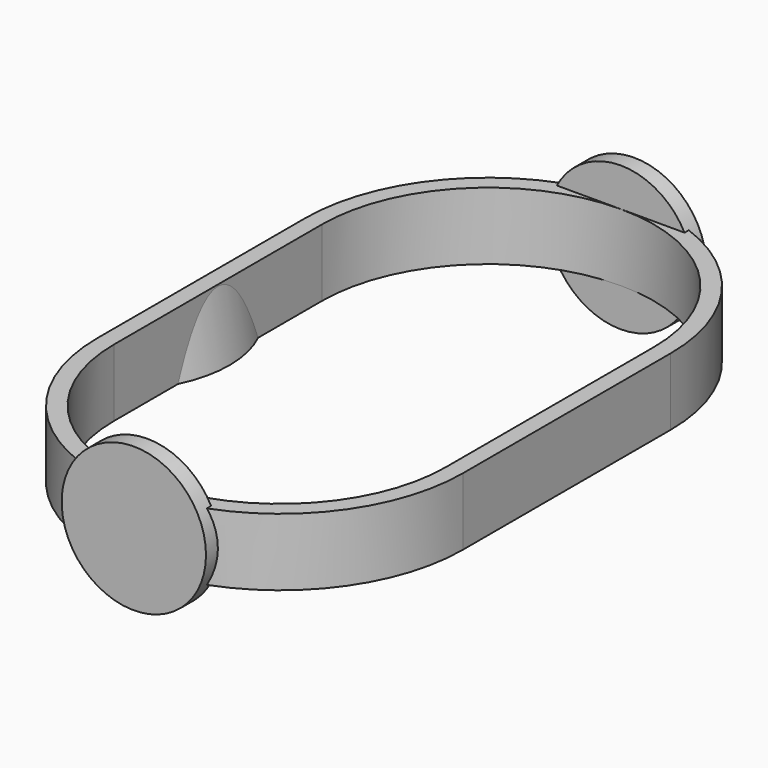
from build123d import *

# Parameters (mm, degrees)
CYLINDER070_R               = 80
CYLINDER070_DEPTH           = 10
CYLINDER069_R               = 80
CYLINDER069_DEPTH           = 10
BOX005_W                    = 40
BOX005_H                    = 27
BOX005_DEPTH                = 7
BOX004_W                    = 40
BOX004_H                    = 27
BOX004_DEPTH                = 7
CYLINDER071_R               = 12
CYLINDER071_DEPTH           = 10
CYLINDER071_PLACEMENT_ANGLE = 350
BOX002_W                    = 1.75
BOX002_H                    = 27
BOX002_DEPTH                = 7
CYLINDER073_R               = 17.25
CYLINDER073_DEPTH           = 7
CYLINDER067_R               = 17.25
CYLINDER067_DEPTH           = 7
BOX006_W                    = 34.5
BOX006_H                    = 27
BOX006_DEPTH                = 7
CYLINDER072_R               = 19
CYLINDER072_DEPTH           = 7
CYLINDER066_R               = 19
CYLINDER066_DEPTH           = 7
BOX003_W                    = 1.75
BOX003_H                    = 27
BOX003_DEPTH                = 7
CYLINDER076_R               = 12
CYLINDER076_DEPTH           = 10
CYLINDER076_PLACEMENT_ANGLE = 10
CYLINDER077_R               = 7.5
CYLINDER077_DEPTH           = 1.75
CYLINDER075_R               = 7.5
CYLINDER075_DEPTH           = 1.75


with BuildPart() as obj1:
    # Cylinder070 → Cylinder070 (new body)
    with BuildSketch(Plane.XY.offset(-10)):
        Circle(CYLINDER070_R)
    extrude(amount=CYLINDER070_DEPTH)


with BuildPart() as obj2:
    # Cylinder069 → Cylinder069 (new body)
    with BuildSketch(Plane.XY.offset(7)):
        Circle(CYLINDER069_R)
    extrude(amount=CYLINDER069_DEPTH)


with BuildPart() as cube003:
    # Box005 → Box005 (new body)
    with BuildSketch(Plane(origin=(-59, -13.5, 0), x_dir=(1, 0, 0), z_dir=(0, 0, 1))):
        with Locations((20, 13.5)):
            Rectangle(BOX005_W, BOX005_H)
    extrude(amount=BOX005_DEPTH)


with BuildPart() as obj3:
    # Box004 → Box004 (new body)
    with BuildSketch(Plane(origin=(19, -13.5, 0), x_dir=(1, 0, 0), z_dir=(0, 0, 1))):
        with Locations((20, 13.5)):
            Rectangle(BOX004_W, BOX004_H)
    extrude(amount=BOX004_DEPTH)

    # Fusion075: union Cube003
    add(cube003.part)

    # Fusion077: union obj1, obj2
    add(obj1.part)
    add(obj2.part)


with BuildPart() as obj4:
    # Cylinder071 → Cylinder071 (new body)
    with BuildSketch(Plane.XY):
        Circle(CYLINDER071_R)
    extrude(amount=CYLINDER071_DEPTH)


with BuildPart() as obj4_1:
    # Cylinder071 placement: moved
    add(obj4.part.moved(Location((-27.54617, 0, -3.88689))).rotate(Axis((-27.54617, 0, -3.88689), (0, 1, 0)), CYLINDER071_PLACEMENT_ANGLE))


with BuildPart() as obj5:
    # Part__Mirroring: instance of obj4
    add(obj4_1.part.mirror(Plane(origin=(0, 0, 0), x_dir=(0, -1, 0), z_dir=(1, 0, 0))))


with BuildPart() as obj6:
    # Box002 → Box002 (new body)
    with BuildSketch(Plane(origin=(17.25, -13.5, 0), x_dir=(1, 0, 0), z_dir=(0, 0, 1))):
        with Locations((0.875, 13.5)):
            Rectangle(BOX002_W, BOX002_H)
    extrude(amount=BOX002_DEPTH)


with BuildPart() as obj7:
    # Cylinder073 → Cylinder073 (new body)
    with BuildSketch(Plane(origin=(0, -13.5, 0), x_dir=(1, 0, 0), z_dir=(0, 0, 1))):
        Circle(CYLINDER073_R)
    extrude(amount=CYLINDER073_DEPTH)


with BuildPart() as obj8:
    # Cylinder067 → Cylinder067 (new body)
    with BuildSketch(Plane(origin=(0, 13.5, 0), x_dir=(1, 0, 0), z_dir=(0, 0, 1))):
        Circle(CYLINDER067_R)
    extrude(amount=CYLINDER067_DEPTH)


with BuildPart() as obj9:
    # Box006 → Box006 (new body)
    with BuildSketch(Plane(origin=(-17.25, -13.5, 0), x_dir=(1, 0, 0), z_dir=(0, 0, 1))):
        with Locations((17.25, 13.5)):
            Rectangle(BOX006_W, BOX006_H)
    extrude(amount=BOX006_DEPTH)

    # Fusion078: union obj7, obj8
    add(obj7.part)
    add(obj8.part)


with BuildPart() as obj10:
    # Cylinder072 → Cylinder072 (new body)
    with BuildSketch(Plane(origin=(0, -13.5, 0), x_dir=(1, 0, 0), z_dir=(0, 0, 1))):
        Circle(CYLINDER072_R)
    extrude(amount=CYLINDER072_DEPTH)


with BuildPart() as obj11:
    # Cylinder066 → Cylinder066 (new body)
    with BuildSketch(Plane(origin=(0, 13.5, 0), x_dir=(1, 0, 0), z_dir=(0, 0, 1))):
        Circle(CYLINDER066_R)
    extrude(amount=CYLINDER066_DEPTH)

    # Fusion079: union obj10
    add(obj10.part)

    # Cut035: cut obj9
    add(obj9.part, mode=Mode.SUBTRACT)


with BuildPart() as obj12:
    # Box003 → Box003 (new body)
    with BuildSketch(Plane(origin=(-19, -13.5, 0), x_dir=(1, 0, 0), z_dir=(0, 0, 1))):
        with Locations((0.875, 13.5)):
            Rectangle(BOX003_W, BOX003_H)
    extrude(amount=BOX003_DEPTH)


with BuildPart() as obj13:
    # Cylinder076 → Cylinder076 (new body)
    with BuildSketch(Plane.XY):
        Circle(CYLINDER076_R)
    extrude(amount=CYLINDER076_DEPTH)


with BuildPart() as obj13_1:
    # Cylinder076 placement: moved
    add(obj13.part.moved(Location((-27.54617, 0, -3.88689))).rotate(Axis((-27.54617, 0, -3.88689), (0, -1, 0)), CYLINDER076_PLACEMENT_ANGLE))

    # Fusion080: union obj5, obj6, obj11, obj12
    add(obj5.part)
    add(obj6.part)
    add(obj11.part)
    add(obj12.part)

    # Cut036: cut obj3
    add(obj3.part, mode=Mode.SUBTRACT)


with BuildPart() as fingertab1:
    # Cylinder077 → Cylinder077 (new body)
    with BuildSketch(Plane(origin=(0, -30.75, 3.5), x_dir=(1, 0, 0), z_dir=(0, -1, 0))):
        Circle(CYLINDER077_R)
    extrude(amount=CYLINDER077_DEPTH)


with BuildPart() as fingertab:
    # Cylinder075 → Cylinder075 (new body)
    with BuildSketch(Plane(origin=(0, -30.75, 3.5), x_dir=(1, 0, 0), z_dir=(0, -1, 0))):
        Circle(CYLINDER075_R)
    extrude(amount=CYLINDER075_DEPTH)


with BuildPart() as toplevelpart_lockring:
    # Part__Mirroring010: instance of FingerTab
    add(fingertab.part.mirror(Plane(origin=(0, 0, 0), x_dir=(1, 0, 0), z_dir=(0, 1, 0))))

    # Fusion081: union obj13, FingerTab1
    add(obj13_1.part)
    add(fingertab1.part)


solid = toplevelpart_lockring.part
